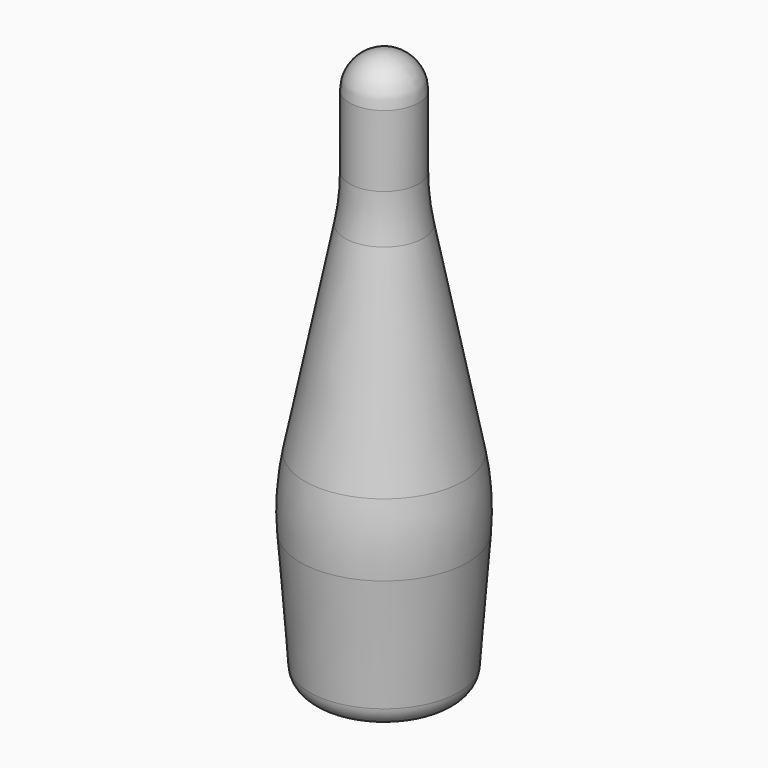
from build123d import *


with BuildPart() as f1:
    # F0 (on Front) → F1 (revolve)
    with BuildSketch(Plane.XZ):
        with BuildLine():
            Line((0, 130), (0, 0))
            Line((0, 0), (12.360957, 0))
            ThreePointArc((12.360957, 0), (15.761711, 1.334639), (17.346954, 4.62605))
            Line((17.346954, 4.62605), (19.38534, 31.804527))
            ThreePointArc((19.38534, 31.804527), (19.440804, 39.965696), (18.388222, 48.058892))
            Line((18.388222, 48.058892), (9.068063, 94.659686))
            ThreePointArc((9.068063, 94.659686), (8.267667, 100.026504), (8, 105.446073))
            Line((8, 105.446073), (8, 122))
            ThreePointArc((8, 122), (5.656854, 127.656854), (0, 130))
        make_face()
    revolve(axis=Axis((0, 0, 101.371), (0, 0, 1)))


solid = f1.part
